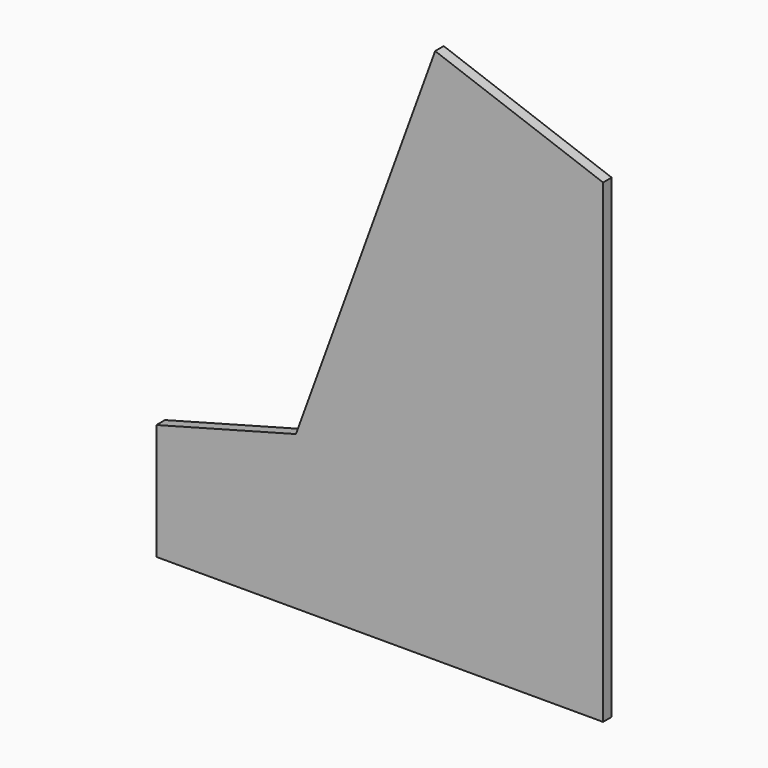
from build123d import *

# Parameters (mm, degrees)
PAD_DEPTH    = 12
POCKET_DEPTH = 1


with BuildPart() as part:
    # Sketch001 → Pad (new body)
    with BuildSketch(Plane.XZ):
        Polygon((-20, -20), (-20, 110), (136.232082, 151.86226), (292.061476, 580), (480, 511.595971), (480, -20), align=None)
    extrude(amount=-PAD_DEPTH)

    # Sketch002 (on Face7 of Pad) → Pocket (cut)
    with BuildSketch(Plane.XZ):
        Polygon((465, -5), (465, 501.092858), (301.026563, 560.774309), (147.656805, 139.394363), (-5, 98.490095), (-5, -5), align=None)
    extrude(amount=POCKET_DEPTH, mode=Mode.SUBTRACT)


solid = part.part
